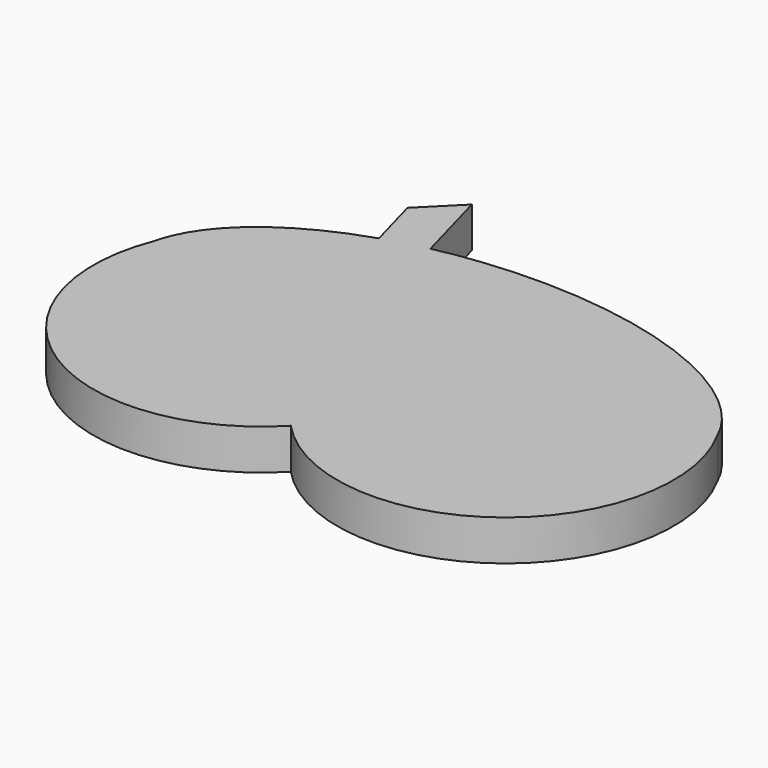
from build123d import *

# Parameters (mm, degrees)
CIRCLE001_R        = 41.5
EXTRUSION002_DEPTH = 10
EXTRUSION_DEPTH    = 10
CIRCLE_R           = 41.5
EXTRUSION001_DEPTH = 10
EXTRUSION003_DEPTH = 10


with BuildPart() as extrusion002:
    # Circle001 (on Cut009001_solid) → Extrusion002 (new body)
    with BuildSketch(Plane(origin=(-7.416555, 0.315657, 15), x_dir=(1, 0, 0), z_dir=(0, 0, 1))):
        Circle(CIRCLE001_R)
    extrude(amount=-EXTRUSION002_DEPTH)


with BuildPart() as extrusion:
    # Wire → Extrusion (new body)
    with BuildSketch(Plane(origin=(-7.75138, 65.661741, 15), x_dir=(1, 0, 0), z_dir=(0, 0, -1))):
        Polygon((0, 0), (-8.816291, 8.816291), (-5.098214, 22.403339), (5.346978, 19.539573), align=None)
    extrude(amount=EXTRUSION_DEPTH)


with BuildPart() as fusion:
    # Circle (on Cut009001_solid) → Extrusion001 (new body)
    with BuildSketch(Plane(origin=(53.009071, 0.089991, 15), x_dir=(1, 0, 0), z_dir=(0, 0, 1))):
        Circle(CIRCLE_R)
    extrude(amount=-EXTRUSION001_DEPTH)

    # Fusion: union Extrusion002, Extrusion
    add(extrusion002.part)
    add(extrusion.part)


with BuildPart() as fusion001:
    # Ellipse002 → Extrusion003 (new body)
    with BuildSketch(Plane(origin=(22.469609, 10.829601, 15), x_dir=(1, 0, 0), z_dir=(0, 0, 1))):
        with BuildLine():
            add(Edge.make_bspline(
                [(69, 0), (69, 65.817931), (-34.5, 32.908965), (-138, 0), (-34.5, -32.908965), (69, -65.817931), (69, 0)],
                knots=[0, 0, 0, 2.094395, 2.094395, 4.18879, 4.18879, 6.283185, 6.283185, 6.283185], degree=2, weights=[1, 0.5, 1, 0.5, 1, 0.5, 1]))
        make_face()
    extrude(amount=-EXTRUSION003_DEPTH)

    # Fusion001: union Fusion
    add(fusion.part)


solid = fusion001.part
